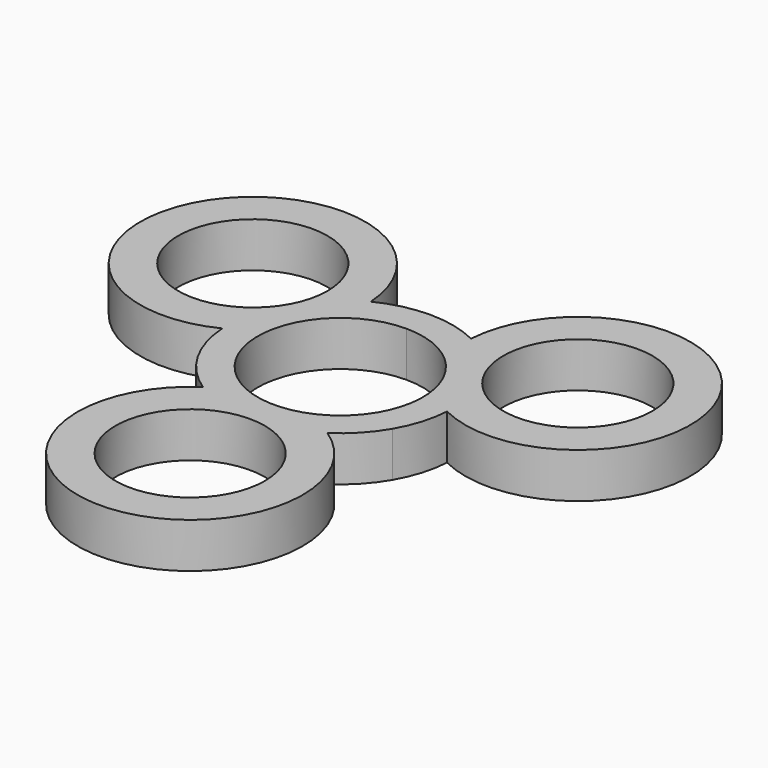
from build123d import *

# Parameters (mm, degrees)
F0_R     = 9.95
F1_DEPTH = 6


with BuildPart() as f1:
    # F0 (on Top) → F1 (new body)
    with BuildSketch(Plane.XY):
        with BuildLine():
            ThreePointArc((-12.990381, -7.5), (-10.930703, -10.272279), (-8.291562, -12.5))
            ThreePointArc((-8.291562, -12.5), (0, -40), (8.291562, -12.5))
            ThreePointArc((8.291562, -12.5), (10.930703, -10.272279), (12.990381, -7.5))
            ThreePointArc((12.990381, -7.5), (14.361407, -4.330127), (14.971099, -0.930703))
            ThreePointArc((14.971099, -0.930703), (34.641016, 20), (6.679537, 13.430703))
            ThreePointArc((6.679537, 13.430703), (3.430703, 14.602406), (0, 15))
            ThreePointArc((0, 15), (-3.430703, 14.602406), (-6.679537, 13.430703))
            ThreePointArc((-6.679537, 13.430703), (-34.641016, 20), (-14.971099, -0.930703))
            ThreePointArc((-14.971099, -0.930703), (-14.361407, -4.330127), (-12.990381, -7.5))
        make_face()
        with Locations((0, -25)):
            Circle(F0_R, mode=Mode.SUBTRACT)
        with BuildLine():
            ThreePointArc((9.526279, -5.5), (0, -11), (-9.526279, -5.5))
            ThreePointArc((-9.526279, -5.5), (-9.526279, 5.5), (0, 11))
            ThreePointArc((0, 11), (9.526279, 5.5), (9.526279, -5.5))
        make_face(mode=Mode.SUBTRACT)
        with Locations((-21.650635, 12.5)):
            Circle(F0_R, mode=Mode.SUBTRACT)
        with Locations((21.650635, 12.5)):
            Circle(F0_R, mode=Mode.SUBTRACT)
    extrude(amount=F1_DEPTH)


solid = f1.part
